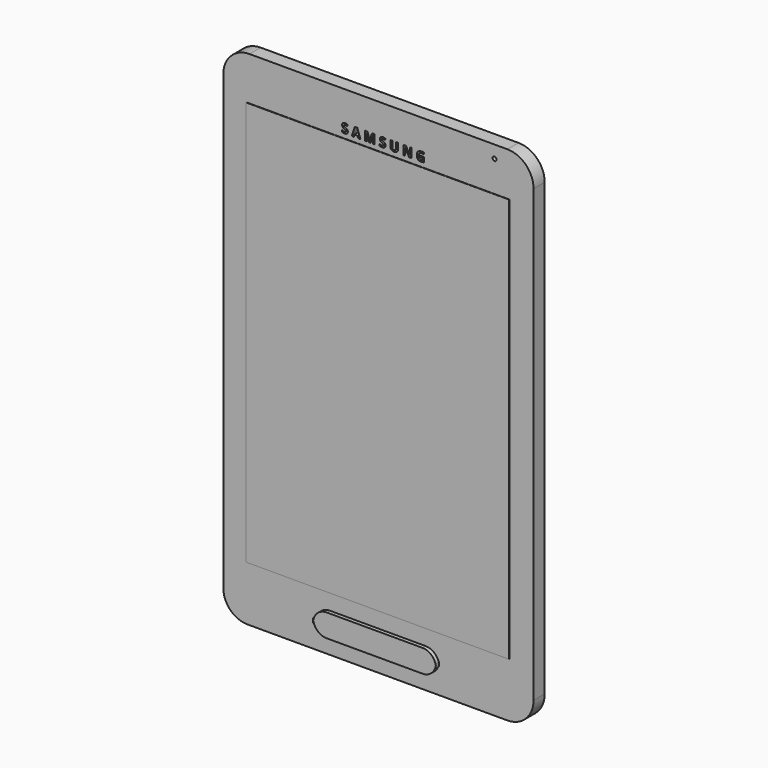
from build123d import *

# Parameters (mm, degrees)
F0_W     = 9.0013295412
F0_H     = 4.4646598399
F0_W_2   = 67.1379743144
F0_H_2   = 103.3227294683
F0_R     = 1.6525271585
F0_R_2   = 1.089962665
F0_R_3   = 1.0922
F0_R_4   = 1.7685353659
F0_R_5   = 0.5139679022
F1_DEPTH = 3.556
F3_DEPTH = 1
F4_W     = 67.1379743144
F4_H     = 103.3227294683
F5_DEPTH = 0.1


with BuildPart() as f1:
    # F0 (on Front) → F1 (new body)
    with BuildSketch(Plane.XZ):
        with BuildLine():
            Line((11.9670012496, 69.1734999418), (-53.8612217126, 69.1734999418))
            ThreePointArc((-53.8612217126, 69.1734999418), (-58.5974827409, 67.211676389), (-60.5593062937, 62.4754153607))
            Line((-60.5593062937, 62.4754153607), (-60.5593062937, -53.0573018872))
            ThreePointArc((-60.5593062937, -53.0573018872), (-58.7526267136, -57.4190122324), (-54.3909163684, -59.2256918126))
            Line((-54.3909163684, -59.2256918126), (11.9670012496, -59.2256918126))
            ThreePointArc((11.9670012496, -59.2256918126), (16.7032601699, -57.2638691329), (18.6650828496, -52.5276102126))
            Line((18.6650828496, -52.5276102126), (18.6650828496, 62.4754183418))
            ThreePointArc((18.6650828496, 62.4754183418), (16.7032601699, 67.2116772621), (11.9670012496, 69.1734999418))
        make_face()
        with Locations((-50.634521991, -52.8156515211)):
            Rectangle(F0_W, F0_H, mode=Mode.SUBTRACT)
        with BuildLine():
            ThreePointArc((-36.8225890654, -51.6243968649), (-36.810893899, -51.9090409017), (-36.7758872392, -52.1917661011))
            ThreePointArc((-36.7758872392, -52.1917661011), (-36.810893899, -52.4744911438), (-36.8225890654, -52.759135025))
            Line((-36.8225890654, -52.759135025), (-36.8225890654, -51.6243968649))
        make_face(mode=Mode.SUBTRACT)
        with BuildLine():
            ThreePointArc((-36.7758872392, -52.1917661011), (-35.5967756011, -50.1126380453), (-33.3528258586, -49.2893718183))
            Line((-33.3528258586, -49.2893718183), (-8.908673869, -49.2893718183))
            ThreePointArc((-8.908673869, -49.2893718183), (-6.6647222271, -50.1126384758), (-5.4856089837, -52.1917678416))
            ThreePointArc((-5.4856089837, -52.1917678416), (-6.6647222271, -54.2708972074), (-8.908673869, -55.0941638649))
            Line((-8.908673869, -55.0941638649), (-33.3528220654, -55.0941638649))
            ThreePointArc((-33.3528220654, -55.0941638649), (-35.5967743801, -54.2708966369), (-36.7758872392, -52.1917661011))
        make_face(mode=Mode.SUBTRACT)
        with BuildLine():
            ThreePointArc((-5.438906869, -52.7591388183), (-5.4506021077, -52.4744939023), (-5.4856089837, -52.1917678416))
            ThreePointArc((-5.4856089837, -52.1917678416), (-5.4506021077, -51.9090417808), (-5.438906869, -51.6243968649))
            Line((-5.438906869, -51.6243968649), (-5.438906869, -52.7591388183))
        make_face(mode=Mode.SUBTRACT)
        Polygon((8.2341767848, -49.0651851386), (8.2341767848, -50.7993549109), (8.2341767848, -52.5276102126), (4.1863496941, -50.5415621018), align=None, mode=Mode.SUBTRACT)
        with Locations((-21.1048447527, 6.3951388001)):
            Rectangle(F0_W_2, F0_H_2, mode=Mode.SUBTRACT)
        with Locations((-47.0746039037, 64.8354440928)):
            Circle(F0_R, mode=Mode.SUBTRACT)
        with BuildLine():
            add(Edge.make_bspline(
                [(-28.8733897614, 60.2483949042), (-28.7526665876, 60.0920901634), (-28.7526665876, 59.8648764426)],
                knots=[0, 0, 0, 1, 1, 1], degree=2))
            add(Edge.make_bspline(
                [(-28.7526665876, 59.8648764426), (-28.7526665876, 59.5502337286), (-28.9791178463, 59.3690218908)],
                knots=[0, 0, 0, 1, 1, 1], degree=2))
            add(Edge.make_bspline(
                [(-28.9791178463, 59.3690218908), (-29.2055691049, 59.1878100531), (-29.6086574284, 59.1878100531)],
                knots=[0, 0, 0, 1, 1, 1], degree=2))
            add(Edge.make_bspline(
                [(-29.6086574284, 59.1878100531), (-29.9807389577, 59.1878100531), (-30.26640811, 59.3281030888)],
                knots=[0, 0, 0, 1, 1, 1], degree=2))
            Line((-30.26640811, 59.3281030888), (-30.26640811, 59.785580379))
            add(Edge.make_bspline(
                [(-30.26640811, 59.785580379), (-30.0315697677, 59.6803606022), (-29.8686570216, 59.6376627218)],
                knots=[0, 0, 0, 1, 1, 1], degree=2))
            add(Edge.make_bspline(
                [(-29.8686570216, 59.6376627218), (-29.7057442755, 59.5949648414), (-29.5705343209, 59.5949648414)],
                knots=[0, 0, 0, 1, 1, 1], degree=2))
            add(Edge.make_bspline(
                [(-29.5705343209, 59.5949648414), (-29.408892345, 59.5949648414), (-29.3222258139, 59.6567242756)],
                knots=[0, 0, 0, 1, 1, 1], degree=2))
            add(Edge.make_bspline(
                [(-29.3222258139, 59.6567242756), (-29.2355592828, 59.7184837097), (-29.2355592828, 59.8409859619)],
                knots=[0, 0, 0, 1, 1, 1], degree=2))
            add(Edge.make_bspline(
                [(-29.2355592828, 59.8409859619), (-29.2355592828, 59.9090992473), (-29.2736823903, 59.9624715978)],
                knots=[0, 0, 0, 1, 1, 1], degree=2))
            add(Edge.make_bspline(
                [(-29.2736823903, 59.9624715978), (-29.3118054979, 60.0158439483), (-29.3857643264, 60.06489568)],
                knots=[0, 0, 0, 1, 1, 1], degree=2))
            add(Edge.make_bspline(
                [(-29.3857643264, 60.06489568), (-29.459723155, 60.1139474117), (-29.6869368758, 60.222217037)],
                knots=[0, 0, 0, 1, 1, 1], degree=2))
            add(Edge.make_bspline(
                [(-29.6869368758, 60.222217037), (-29.8994096617, 60.3223537328), (-30.0059002087, 60.4143574989)],
                knots=[0, 0, 0, 1, 1, 1], degree=2))
            add(Edge.make_bspline(
                [(-30.0059002087, 60.4143574989), (-30.1123907557, 60.506361265), (-30.1759292682, 60.6288635172)],
                knots=[0, 0, 0, 1, 1, 1], degree=2))
            add(Edge.make_bspline(
                [(-30.1759292682, 60.6288635172), (-30.2394677807, 60.7513657693), (-30.2394677807, 60.9145326695)],
                knots=[0, 0, 0, 1, 1, 1], degree=2))
            add(Edge.make_bspline(
                [(-30.2394677807, 60.9145326695), (-30.2394677807, 61.2230756863), (-30.0305531515, 61.3992044431)],
                knots=[0, 0, 0, 1, 1, 1], degree=2))
            add(Edge.make_bspline(
                [(-30.0305531515, 61.3992044431), (-29.8216385224, 61.5753331998), (-29.4531151497, 61.5753331998)],
                knots=[0, 0, 0, 1, 1, 1], degree=2))
            add(Edge.make_bspline(
                [(-29.4531151497, 61.5753331998), (-29.272157466, 61.5753331998), (-29.1077197956, 61.5326353194)],
                knots=[0, 0, 0, 1, 1, 1], degree=2))
            add(Edge.make_bspline(
                [(-29.1077197956, 61.5326353194), (-28.9432821252, 61.4899374389), (-28.7638493658, 61.4121662996)],
                knots=[0, 0, 0, 1, 1, 1], degree=2))
            Line((-28.7638493658, 61.4121662996), (-28.9224414931, 61.0289019921))
            add(Edge.make_bspline(
                [(-28.9224414931, 61.0289019921), (-29.1084822578, 61.1051482071), (-29.2299678937, 61.135392539)],
                knots=[0, 0, 0, 1, 1, 1], degree=2))
            add(Edge.make_bspline(
                [(-29.2299678937, 61.135392539), (-29.3514535297, 61.165636871), (-29.4688727008, 61.165636871)],
                knots=[0, 0, 0, 1, 1, 1], degree=2))
            add(Edge.make_bspline(
                [(-29.4688727008, 61.165636871), (-29.6086574284, 61.165636871), (-29.6833787191, 61.1005734342)],
                knots=[0, 0, 0, 1, 1, 1], degree=2))
            add(Edge.make_bspline(
                [(-29.6833787191, 61.1005734342), (-29.7581000098, 61.0355099974), (-29.7581000098, 60.9307985287)],
                knots=[0, 0, 0, 1, 1, 1], degree=2))
            add(Edge.make_bspline(
                [(-29.7581000098, 60.9307985287), (-29.7581000098, 60.8657350919), (-29.7278556779, 60.8171916683)],
                knots=[0, 0, 0, 1, 1, 1], degree=2))
            add(Edge.make_bspline(
                [(-29.7278556779, 60.8171916683), (-29.6976113459, 60.7686482448), (-29.6317854469, 60.7234088238)],
                knots=[0, 0, 0, 1, 1, 1], degree=2))
            add(Edge.make_bspline(
                [(-29.6317854469, 60.7234088238), (-29.565959548, 60.6781694029), (-29.3199384275, 60.5607502318)],
                knots=[0, 0, 0, 1, 1, 1], degree=2))
            add(Edge.make_bspline(
                [(-29.3199384275, 60.5607502318), (-28.9941129352, 60.404699645), (-28.8733897614, 60.2483949042)],
                knots=[0, 0, 0, 1, 1, 1], degree=2))
        make_face(mode=Mode.SUBTRACT)
        Polygon((-25.5340596971, 59.2198334634), (-26.0647333538, 59.2198334634), (-26.2329833349, 59.7728726765), (-27.0798246299, 59.7728726765), (-27.248074611, 59.2198334634), (-27.7787482676, 59.2198334634), (-26.958847302, 61.5519510272), (-26.3570105114, 61.5519510272), align=None, mode=Mode.SUBTRACT)
        with BuildLine():
            Line((-22.9620207101, 59.2198334634), (-23.4133983031, 59.2198334634))
            Line((-23.4133983031, 59.2198334634), (-23.9725372133, 61.0416096946))
            Line((-23.9725372133, 61.0416096946), (-23.9867698401, 61.0416096946))
            add(Edge.make_bspline(
                [(-23.9867698401, 61.0416096946), (-23.9562713541, 60.486028941), (-23.9562713541, 60.2999881764)],
                knots=[0, 0, 0, 1, 1, 1], degree=2))
            Line((-23.9562713541, 60.2999881764), (-23.9562713541, 59.2198334634))
            Line((-23.9562713541, 59.2198334634), (-24.3964661689, 59.2198334634))
            Line((-24.3964661689, 59.2198334634), (-24.3964661689, 61.5422931733))
            Line((-24.3964661689, 61.5422931733), (-23.7260077847, 61.5422931733))
            Line((-23.7260077847, 61.5422931733), (-23.1765267284, 59.7662646711))
            Line((-23.1765267284, 59.7662646711), (-23.1668688745, 59.7662646711))
            Line((-23.1668688745, 59.7662646711), (-22.5838394836, 61.5422931733))
            Line((-22.5838394836, 61.5422931733), (-21.9138894075, 61.5422931733))
            Line((-21.9138894075, 61.5422931733), (-21.9138894075, 59.2198334634))
            Line((-21.9138894075, 59.2198334634), (-22.372891622, 59.2198334634))
            Line((-22.372891622, 59.2198334634), (-22.372891622, 60.3193038842))
            add(Edge.make_bspline(
                [(-22.372891622, 60.3193038842), (-22.372891622, 60.3970750235), (-22.3703500815, 60.4987366435)],
                knots=[0, 0, 0, 1, 1, 1], degree=2))
            add(Edge.make_bspline(
                [(-22.3703500815, 60.4987366435), (-22.367808541, 60.6003982636), (-22.3490011413, 61.038559846)],
                knots=[0, 0, 0, 1, 1, 1], degree=2))
            Line((-22.3490011413, 61.038559846), (-22.3632337681, 61.038559846))
            Line((-22.3632337681, 61.038559846), (-22.9620207101, 59.2198334634))
        make_face(mode=Mode.SUBTRACT)
        with BuildLine():
            add(Edge.make_bspline(
                [(-19.2338349492, 60.2483949042), (-19.1131117754, 60.0920901634), (-19.1131117754, 59.8648764426)],
                knots=[0, 0, 0, 1, 1, 1], degree=2))
            add(Edge.make_bspline(
                [(-19.1131117754, 59.8648764426), (-19.1131117754, 59.5502337286), (-19.339563034, 59.3690218908)],
                knots=[0, 0, 0, 1, 1, 1], degree=2))
            add(Edge.make_bspline(
                [(-19.339563034, 59.3690218908), (-19.5660142926, 59.1878100531), (-19.9691026161, 59.1878100531)],
                knots=[0, 0, 0, 1, 1, 1], degree=2))
            add(Edge.make_bspline(
                [(-19.9691026161, 59.1878100531), (-20.3411841455, 59.1878100531), (-20.6268532978, 59.3281030888)],
                knots=[0, 0, 0, 1, 1, 1], degree=2))
            Line((-20.6268532978, 59.3281030888), (-20.6268532978, 59.785580379))
            add(Edge.make_bspline(
                [(-20.6268532978, 59.785580379), (-20.3920149555, 59.6803606022), (-20.2291022094, 59.6376627218)],
                knots=[0, 0, 0, 1, 1, 1], degree=2))
            add(Edge.make_bspline(
                [(-20.2291022094, 59.6376627218), (-20.0661894633, 59.5949648414), (-19.9309795086, 59.5949648414)],
                knots=[0, 0, 0, 1, 1, 1], degree=2))
            add(Edge.make_bspline(
                [(-19.9309795086, 59.5949648414), (-19.7693375327, 59.5949648414), (-19.6826710016, 59.6567242756)],
                knots=[0, 0, 0, 1, 1, 1], degree=2))
            add(Edge.make_bspline(
                [(-19.6826710016, 59.6567242756), (-19.5960044706, 59.7184837097), (-19.5960044706, 59.8409859619)],
                knots=[0, 0, 0, 1, 1, 1], degree=2))
            add(Edge.make_bspline(
                [(-19.5960044706, 59.8409859619), (-19.5960044706, 59.9090992473), (-19.6341275781, 59.9624715978)],
                knots=[0, 0, 0, 1, 1, 1], degree=2))
            add(Edge.make_bspline(
                [(-19.6341275781, 59.9624715978), (-19.6722506856, 60.0158439483), (-19.7462095142, 60.06489568)],
                knots=[0, 0, 0, 1, 1, 1], degree=2))
            add(Edge.make_bspline(
                [(-19.7462095142, 60.06489568), (-19.8201683428, 60.1139474117), (-20.0473820635, 60.222217037)],
                knots=[0, 0, 0, 1, 1, 1], degree=2))
            add(Edge.make_bspline(
                [(-20.0473820635, 60.222217037), (-20.2598548494, 60.3223537328), (-20.3663453964, 60.4143574989)],
                knots=[0, 0, 0, 1, 1, 1], degree=2))
            add(Edge.make_bspline(
                [(-20.3663453964, 60.4143574989), (-20.4728359434, 60.506361265), (-20.5363744559, 60.6288635172)],
                knots=[0, 0, 0, 1, 1, 1], degree=2))
            add(Edge.make_bspline(
                [(-20.5363744559, 60.6288635172), (-20.5999129685, 60.7513657693), (-20.5999129685, 60.9145326695)],
                knots=[0, 0, 0, 1, 1, 1], degree=2))
            add(Edge.make_bspline(
                [(-20.5999129685, 60.9145326695), (-20.5999129685, 61.2230756863), (-20.3909983393, 61.3992044431)],
                knots=[0, 0, 0, 1, 1, 1], degree=2))
            add(Edge.make_bspline(
                [(-20.3909983393, 61.3992044431), (-20.1820837101, 61.5753331998), (-19.8135603374, 61.5753331998)],
                knots=[0, 0, 0, 1, 1, 1], degree=2))
            add(Edge.make_bspline(
                [(-19.8135603374, 61.5753331998), (-19.6326026538, 61.5753331998), (-19.4681649834, 61.5326353194)],
                knots=[0, 0, 0, 1, 1, 1], degree=2))
            add(Edge.make_bspline(
                [(-19.4681649834, 61.5326353194), (-19.3037273129, 61.4899374389), (-19.1242945536, 61.4121662996)],
                knots=[0, 0, 0, 1, 1, 1], degree=2))
            Line((-19.1242945536, 61.4121662996), (-19.2828866808, 61.0289019921))
            add(Edge.make_bspline(
                [(-19.2828866808, 61.0289019921), (-19.4689274455, 61.1051482071), (-19.5904130815, 61.135392539)],
                knots=[0, 0, 0, 1, 1, 1], degree=2))
            add(Edge.make_bspline(
                [(-19.5904130815, 61.135392539), (-19.7118987174, 61.165636871), (-19.8293178886, 61.165636871)],
                knots=[0, 0, 0, 1, 1, 1], degree=2))
            add(Edge.make_bspline(
                [(-19.8293178886, 61.165636871), (-19.9691026161, 61.165636871), (-20.0438239068, 61.1005734342)],
                knots=[0, 0, 0, 1, 1, 1], degree=2))
            add(Edge.make_bspline(
                [(-20.0438239068, 61.1005734342), (-20.1185451976, 61.0355099974), (-20.1185451976, 60.9307985287)],
                knots=[0, 0, 0, 1, 1, 1], degree=2))
            add(Edge.make_bspline(
                [(-20.1185451976, 60.9307985287), (-20.1185451976, 60.8657350919), (-20.0883008656, 60.8171916683)],
                knots=[0, 0, 0, 1, 1, 1], degree=2))
            add(Edge.make_bspline(
                [(-20.0883008656, 60.8171916683), (-20.0580565336, 60.7686482448), (-19.9922306347, 60.7234088238)],
                knots=[0, 0, 0, 1, 1, 1], degree=2))
            add(Edge.make_bspline(
                [(-19.9922306347, 60.7234088238), (-19.9264047357, 60.6781694029), (-19.6803836152, 60.5607502318)],
                knots=[0, 0, 0, 1, 1, 1], degree=2))
            add(Edge.make_bspline(
                [(-19.6803836152, 60.5607502318), (-19.354558123, 60.404699645), (-19.2338349492, 60.2483949042)],
                knots=[0, 0, 0, 1, 1, 1], degree=2))
        make_face(mode=Mode.SUBTRACT)
        with BuildLine():
            Line((-16.4475440979, 61.5422931733), (-15.9565184731, 61.5422931733))
            Line((-15.9565184731, 61.5422931733), (-15.9565184731, 60.0397344291))
            add(Edge.make_bspline(
                [(-15.9565184731, 60.0397344291), (-15.9565184731, 59.7820222223), (-16.0716502578, 59.5883568361)],
                knots=[0, 0, 0, 1, 1, 1], degree=2))
            add(Edge.make_bspline(
                [(-16.0716502578, 59.5883568361), (-16.1867820425, 59.3946914499), (-16.4045920634, 59.2912507515)],
                knots=[0, 0, 0, 1, 1, 1], degree=2))
            add(Edge.make_bspline(
                [(-16.4045920634, 59.2912507515), (-16.6224020844, 59.1878100531), (-16.9192540149, 59.1878100531)],
                knots=[0, 0, 0, 1, 1, 1], degree=2))
            add(Edge.make_bspline(
                [(-16.9192540149, 59.1878100531), (-17.3670734512, 59.1878100531), (-17.61487365, 59.4175653144)],
                knots=[0, 0, 0, 1, 1, 1], degree=2))
            add(Edge.make_bspline(
                [(-17.61487365, 59.4175653144), (-17.8626738489, 59.6473205757), (-17.8626738489, 60.0458341263)],
                knots=[0, 0, 0, 1, 1, 1], degree=2))
            Line((-17.8626738489, 60.0458341263), (-17.8626738489, 61.5422931733))
            Line((-17.8626738489, 61.5422931733), (-17.3721565322, 61.5422931733))
            Line((-17.3721565322, 61.5422931733), (-17.3721565322, 60.120555417))
            add(Edge.make_bspline(
                [(-17.3721565322, 60.120555417), (-17.3721565322, 59.8521687401), (-17.2641410609, 59.7266166393)],
                knots=[0, 0, 0, 1, 1, 1], degree=2))
            add(Edge.make_bspline(
                [(-17.2641410609, 59.7266166393), (-17.1561255896, 59.6010645386), (-16.9065463124, 59.6010645386)],
                knots=[0, 0, 0, 1, 1, 1], degree=2))
            add(Edge.make_bspline(
                [(-16.9065463124, 59.6010645386), (-16.6650999648, 59.6010645386), (-16.5563220313, 59.7273791015)],
                knots=[0, 0, 0, 1, 1, 1], degree=2))
            add(Edge.make_bspline(
                [(-16.5563220313, 59.7273791015), (-16.4475440979, 59.8536936644), (-16.4475440979, 60.1236052656)],
                knots=[0, 0, 0, 1, 1, 1], degree=2))
            Line((-16.4475440979, 60.1236052656), (-16.4475440979, 61.5422931733))
        make_face(mode=Mode.SUBTRACT)
        with BuildLine():
            Line((-12.4822326082, 61.5422931733), (-12.4822326082, 59.2198334634))
            Line((-12.4822326082, 59.2198334634), (-13.1079598796, 59.2198334634))
            Line((-13.1079598796, 59.2198334634), (-14.1184763828, 60.9765462577))
            Line((-14.1184763828, 60.9765462577), (-14.1327090096, 60.9765462577))
            add(Edge.make_bspline(
                [(-14.1327090096, 60.9765462577), (-14.1022105236, 60.511444346), (-14.1022105236, 60.3126958789)],
                knots=[0, 0, 0, 1, 1, 1], degree=2))
            Line((-14.1022105236, 60.3126958789), (-14.1022105236, 59.2198334634))
            Line((-14.1022105236, 59.2198334634), (-14.5424053383, 59.2198334634))
            Line((-14.5424053383, 59.2198334634), (-14.5424053383, 61.5422931733))
            Line((-14.5424053383, 61.5422931733), (-13.9212528399, 61.5422931733))
            Line((-13.9212528399, 61.5422931733), (-12.9127695691, 59.8028628544))
            Line((-12.9127695691, 59.8028628544), (-12.9015867909, 59.8028628544))
            add(Edge.make_bspline(
                [(-12.9015867909, 59.8028628544), (-12.9254772716, 60.2557653716), (-12.9254772716, 60.4428227525)],
                knots=[0, 0, 0, 1, 1, 1], degree=2))
            Line((-12.9254772716, 60.4428227525), (-12.9254772716, 61.5422931733))
            Line((-12.9254772716, 61.5422931733), (-12.4822326082, 61.5422931733))
        make_face(mode=Mode.SUBTRACT)
        with BuildLine():
            Line((-10.4722140004, 64.8354440928), (-28.8704230986, 64.8354440928))
            ThreePointArc((-28.8704230986, 64.8354440928), (-29.5113260174, 65.1009147739), (-29.7767966986, 65.7418176928))
            Line((-29.7767966986, 65.7418176928), (-29.7767966986, 66.6729419033))
            ThreePointArc((-29.7767966986, 66.6729419033), (-29.4814081264, 67.3860730005), (-28.7682770293, 67.6814615726))
            Line((-28.7682770293, 67.6814615726), (-10.4583038413, 67.6814615726))
            ThreePointArc((-10.4583038413, 67.6814615726), (-9.8174009224, 67.4159908915), (-9.5519302413, 66.7750879726))
            Line((-9.5519302413, 66.7750879726), (-9.5519302413, 65.7557278519))
            ThreePointArc((-9.5519302413, 65.7557278519), (-9.8214751137, 65.1049889652), (-10.4722140004, 64.8354440928))
        make_face(mode=Mode.SUBTRACT)
        with BuildLine():
            Line((-10.1709556766, 60.1139474117), (-10.1709556766, 60.5241520486))
            Line((-10.1709556766, 60.5241520486), (-9.2493930909, 60.5241520486))
            Line((-9.2493930909, 60.5241520486), (-9.2493930909, 59.3199701592))
            add(Edge.make_bspline(
                [(-9.2493930909, 59.3199701592), (-9.4735569631, 59.2467737927), (-9.6712888141, 59.2172919229)],
                knots=[0, 0, 0, 1, 1, 1], degree=2))
            add(Edge.make_bspline(
                [(-9.6712888141, 59.2172919229), (-9.8690206651, 59.1878100531), (-10.0753937537, 59.1878100531)],
                knots=[0, 0, 0, 1, 1, 1], degree=2))
            add(Edge.make_bspline(
                [(-10.0753937537, 59.1878100531), (-10.6009843294, 59.1878100531), (-10.878266398, 59.496861378)],
                knots=[0, 0, 0, 1, 1, 1], degree=2))
            add(Edge.make_bspline(
                [(-10.878266398, 59.496861378), (-11.1555484667, 59.805912703), (-11.1555484667, 60.384367321)],
                knots=[0, 0, 0, 1, 1, 1], degree=2))
            add(Edge.make_bspline(
                [(-11.1555484667, 60.384367321), (-11.1555484667, 60.9465560798), (-10.8337894393, 61.2609446398)],
                knots=[0, 0, 0, 1, 1, 1], degree=2))
            add(Edge.make_bspline(
                [(-10.8337894393, 61.2609446398), (-10.5120304118, 61.5753331998), (-9.9422170315, 61.5753331998)],
                knots=[0, 0, 0, 1, 1, 1], degree=2))
            add(Edge.make_bspline(
                [(-9.9422170315, 61.5753331998), (-9.584368129, 61.5753331998), (-9.2524429395, 61.4324986236)],
                knots=[0, 0, 0, 1, 1, 1], degree=2))
            Line((-9.2524429395, 61.4324986236), (-9.4161181478, 61.038559846))
            add(Edge.make_bspline(
                [(-9.4161181478, 61.038559846), (-9.6702721979, 61.165636871), (-9.9452668801, 61.165636871)],
                knots=[0, 0, 0, 1, 1, 1], degree=2))
            add(Edge.make_bspline(
                [(-9.9452668801, 61.165636871), (-10.264484367, 61.165636871), (-10.4566248289, 60.9511308527)],
                knots=[0, 0, 0, 1, 1, 1], degree=2))
            add(Edge.make_bspline(
                [(-10.4566248289, 60.9511308527), (-10.6487652908, 60.7366248344), (-10.6487652908, 60.3747094671)],
                knots=[0, 0, 0, 1, 1, 1], degree=2))
            add(Edge.make_bspline(
                [(-10.6487652908, 60.3747094671), (-10.6487652908, 59.9965282405), (-10.4939854743, 59.7972714653)],
                knots=[0, 0, 0, 1, 1, 1], degree=2))
            add(Edge.make_bspline(
                [(-10.4939854743, 59.7972714653), (-10.3392056578, 59.59801469), (-10.0438786515, 59.59801469)],
                knots=[0, 0, 0, 1, 1, 1], degree=2))
            add(Edge.make_bspline(
                [(-10.0438786515, 59.59801469), (-9.8893529891, 59.59801469), (-9.7307608618, 59.6295297922)],
                knots=[0, 0, 0, 1, 1, 1], degree=2))
            Line((-9.7307608618, 59.6295297922), (-9.7307608618, 60.1139474117))
            Line((-9.7307608618, 60.1139474117), (-10.1709556766, 60.1139474117))
        make_face(mode=Mode.SUBTRACT)
        with Locations((-3.7707460579, 66.1292374134)):
            Circle(F0_R_2, mode=Mode.SUBTRACT)
        with Locations((-0.6219649804, 66.1292374134)):
            Circle(F0_R_3, mode=Mode.SUBTRACT)
        with Locations((8.7032718584, 65.9475773573)):
            Circle(F0_R_4, mode=Mode.SUBTRACT)
        with Locations((-21.1048447527, 6.3951388001)):
            Rectangle(F0_W_2, F0_H_2)
        with BuildLine():
            Line((-8.908673869, -49.2893718183), (-33.3528258586, -49.2893718183))
            ThreePointArc((-33.3528258586, -49.2893718183), (-35.5967756011, -50.1126380453), (-36.7758872392, -52.1917661011))
            ThreePointArc((-36.7758872392, -52.1917661011), (-35.5967743801, -54.2708966369), (-33.3528220654, -55.0941638649))
            Line((-33.3528220654, -55.0941638649), (-8.908673869, -55.0941638649))
            ThreePointArc((-8.908673869, -55.0941638649), (-6.6647222271, -54.2708972074), (-5.4856089837, -52.1917678416))
            ThreePointArc((-5.4856089837, -52.1917678416), (-6.6647222271, -50.1126384758), (-8.908673869, -49.2893718183))
        make_face()
        with BuildLine():
            ThreePointArc((-29.7767966986, 65.7418176928), (-29.5113260174, 65.1009147739), (-28.8704230986, 64.8354440928))
            Line((-28.8704230986, 64.8354440928), (-10.4722140004, 64.8354440928))
            ThreePointArc((-10.4722140004, 64.8354440928), (-9.8214751137, 65.1049889652), (-9.5519302413, 65.7557278519))
            Line((-9.5519302413, 65.7557278519), (-9.5519302413, 66.7750879726))
            ThreePointArc((-9.5519302413, 66.7750879726), (-9.8174009224, 67.4159908915), (-10.4583038413, 67.6814615726))
            Line((-10.4583038413, 67.6814615726), (-28.7682770293, 67.6814615726))
            ThreePointArc((-28.7682770293, 67.6814615726), (-29.4814081264, 67.3860730005), (-29.7767966986, 66.6729419033))
            Line((-29.7767966986, 66.6729419033), (-29.7767966986, 65.7418176928))
        make_face()
        with Locations((-50.634521991, -52.8156515211)):
            Rectangle(F0_W, F0_H)
        with Locations((8.7032718584, 65.9475773573)):
            Circle(F0_R_4)
        with Locations((8.7032718584, 65.9475773573)):
            Circle(F0_R_5, mode=Mode.SUBTRACT)
        with Locations((-47.0746039037, 64.8354440928)):
            Circle(F0_R)
        Polygon((8.2341767848, -52.5276102126), (8.2341767848, -50.7993549109), (8.2341767848, -49.0651851386), (4.1863496941, -50.5415621018), align=None)
        with Locations((-0.6219649804, 66.1292374134)):
            Circle(F0_R_3)
        with Locations((-3.7707460579, 66.1292374134)):
            Circle(F0_R_2)
    extrude(amount=F1_DEPTH)


with BuildPart() as f3:
    # F2 (on face) → F3 (new body)
    with BuildSketch(Plane.XZ.offset(3.556)):
        with BuildLine():
            ThreePointArc((-5.438906869, -51.6243968649), (-5.4506021077, -51.9090417808), (-5.4856089837, -52.1917678416))
            ThreePointArc((-5.4856089837, -52.1917678416), (-5.4506021077, -52.4744939023), (-5.438906869, -52.7591388183))
            Line((-5.438906869, -52.7591388183), (-5.438906869, -51.6243968649))
        make_face()
    extrude(amount=F3_DEPTH)


with BuildPart() as f3b:
    # F2 (on face) → F3, piece 2 (new body)
    with BuildSketch(Plane.XZ.offset(3.556)):
        with BuildLine():
            ThreePointArc((-36.8225890654, -52.759135025), (-36.810893899, -52.4744911438), (-36.7758872392, -52.1917661011))
            ThreePointArc((-36.7758872392, -52.1917661011), (-36.810893899, -51.9090409017), (-36.8225890654, -51.6243968649))
            Line((-36.8225890654, -51.6243968649), (-36.8225890654, -52.759135025))
        make_face()
    extrude(amount=F3_DEPTH)


with BuildPart() as f3c:
    # F2 (on face) → F3, piece 3 (new body)
    with BuildSketch(Plane.XZ.offset(3.556)):
        with BuildLine():
            Line((-8.908673869, -49.2893718183), (-33.3528258586, -49.2893718183))
            ThreePointArc((-33.3528258586, -49.2893718183), (-35.5967756011, -50.1126380453), (-36.7758872392, -52.1917661011))
            ThreePointArc((-36.7758872392, -52.1917661011), (-35.5967743801, -54.2708966369), (-33.3528220654, -55.0941638649))
            Line((-33.3528220654, -55.0941638649), (-8.908673869, -55.0941638649))
            ThreePointArc((-8.908673869, -55.0941638649), (-6.6647222271, -54.2708972074), (-5.4856089837, -52.1917678416))
            ThreePointArc((-5.4856089837, -52.1917678416), (-6.6647222271, -50.1126384758), (-8.908673869, -49.2893718183))
        make_face()
    extrude(amount=F3_DEPTH)


with BuildPart() as f5:
    # F4 (on face) → F5 (new body)
    with BuildSketch(Plane.XZ.offset(3.556)):
        with Locations((-21.1048447527, 6.3951388001)):
            Rectangle(F4_W, F4_H)
    extrude(amount=F5_DEPTH)


solid = Compound([f1.part, f3.part, f3b.part, f3c.part, f5.part])
